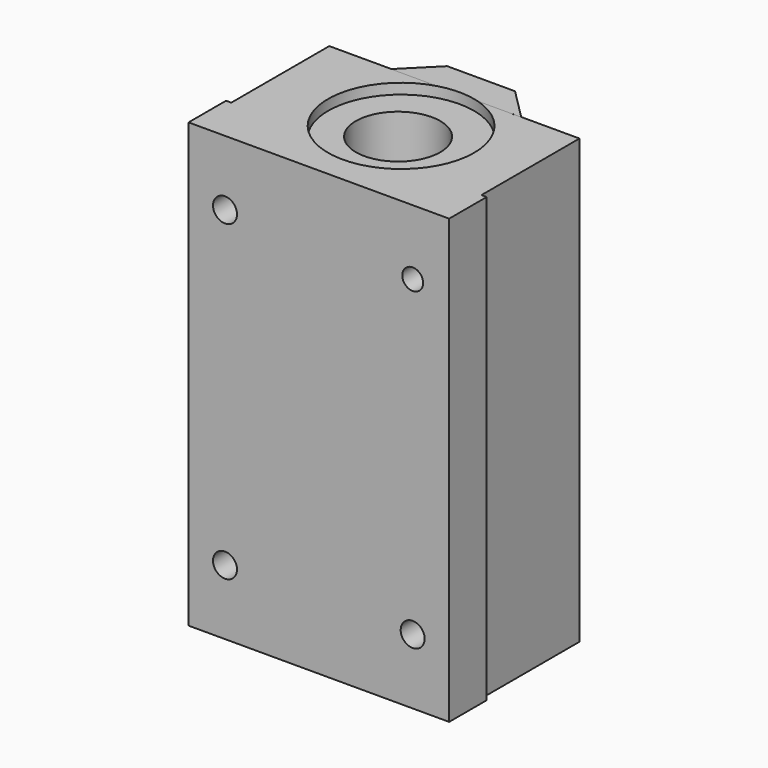
from build123d import *

# Parameters (mm, degrees)
CYLINDER006001_R          = 14
CYLINDER006001_DEPTH      = 3
CYLINDER006001_ROLL_ANGLE = -90
CYLINDER005001_R          = 14
CYLINDER005001_DEPTH      = 3
CYLINDER005001_ROLL_ANGLE = -90
CYLINDER004001_R          = 2.3
CYLINDER004001_DEPTH      = 40
CYLINDER003001_R          = 2
CYLINDER003001_DEPTH      = 40
CYLINDER002001_R          = 2.3
CYLINDER002001_DEPTH      = 40
CYLINDER001001_R          = 2.3
CYLINDER001001_DEPTH      = 40
BOX005001_W               = 1
BOX005001_H               = 85
BOX005001_DEPTH           = 23.5
BOX004001_W               = 1
BOX004001_H               = 85
BOX004001_DEPTH           = 23.5
BOX003001_W               = 10
BOX003001_H               = 90
BOX003001_DEPTH           = 10
BOX003001_ROLL_ANGLE      = 3e-06
BOX003001_PITCH_ANGLE     = -44.999934
BOX003001_PLACEMENT_ANGLE = -7e-06
BOX002001_W               = 10
BOX002001_H               = 90
BOX002001_DEPTH           = 10
BOX002001_ROLL_ANGLE      = 3e-06
BOX002001_PITCH_ANGLE     = 44.999934
BOX002001_PLACEMENT_ANGLE = 7e-06
BOX001001_W               = 25
BOX001001_H               = 85
BOX001001_DEPTH           = 6
CYLINDER015_R             = 8.1
CYLINDER015_DEPTH         = 100
CYLINDER015_ROLL_ANGLE    = -90
BOX012_W                  = 50
BOX012_H                  = 85
BOX012_DEPTH              = 32.5
CUT011001_ROLL_ANGLE      = -90


with BuildPart() as cylinder006001:
    # Cylinder006001 → Cylinder006001 (new body)
    with BuildSketch(Plane.XY):
        Circle(CYLINDER006001_R)
    extrude(amount=CYLINDER006001_DEPTH)


with BuildPart() as cylinder006001_1:
    # Cylinder006001 roll: moved
    add(cylinder006001.part.rotate(Axis((0, 0, 0), (1, 0, 0)), CYLINDER006001_ROLL_ANGLE))


with BuildPart() as cylinder006001_2:
    # Cylinder006001 placement: moved
    add(cylinder006001_1.part.moved(Location((25.6346, 83, 19.0294))))


with BuildPart() as cylinder005001:
    # Cylinder005001 → Cylinder005001 (new body)
    with BuildSketch(Plane.XY):
        Circle(CYLINDER005001_R)
    extrude(amount=CYLINDER005001_DEPTH)


with BuildPart() as cylinder005001_1:
    # Cylinder005001 roll: moved
    add(cylinder005001.part.rotate(Axis((0, 0, 0), (1, 0, 0)), CYLINDER005001_ROLL_ANGLE))


with BuildPart() as cylinder005001_2:
    # Cylinder005001 placement: moved
    add(cylinder005001_1.part.moved(Location((25.5737, -1, 19.0038))))


with BuildPart() as cylinder004001:
    # Cylinder004001 → Cylinder004001 (new body)
    with BuildSketch(Plane(origin=(43, 72.5, -4), x_dir=(1, 0, 0), z_dir=(0, 0, 1))):
        Circle(CYLINDER004001_R)
    extrude(amount=CYLINDER004001_DEPTH)


with BuildPart() as cylinder003001:
    # Cylinder003001 → Cylinder003001 (new body)
    with BuildSketch(Plane(origin=(43, 12.5, -4), x_dir=(1, 0, 0), z_dir=(0, 0, 1))):
        Circle(CYLINDER003001_R)
    extrude(amount=CYLINDER003001_DEPTH)


with BuildPart() as cylinder002001:
    # Cylinder002001 → Cylinder002001 (new body)
    with BuildSketch(Plane(origin=(7, 72.5, -3), x_dir=(1, 0, 0), z_dir=(0, 0, 1))):
        Circle(CYLINDER002001_R)
    extrude(amount=CYLINDER002001_DEPTH)


with BuildPart() as cylinder001001:
    # Cylinder001001 → Cylinder001001 (new body)
    with BuildSketch(Plane(origin=(7, 12.5, -2), x_dir=(1, 0, 0), z_dir=(0, 0, 1))):
        Circle(CYLINDER001001_R)
    extrude(amount=CYLINDER001001_DEPTH)


with BuildPart() as box005001:
    # Box005001 → Box005001 (new body)
    with BuildSketch(Plane(origin=(49, 0, 9), x_dir=(1, 0, 0), z_dir=(0, 0, 1))):
        with Locations((0.5, 42.5)):
            Rectangle(BOX005001_W, BOX005001_H)
    extrude(amount=BOX005001_DEPTH)


with BuildPart() as box004001:
    # Box004001 → Box004001 (new body)
    with BuildSketch(Plane.XY.offset(9)):
        with Locations((0.5, 42.5)):
            Rectangle(BOX004001_W, BOX004001_H)
    extrude(amount=BOX004001_DEPTH)


with BuildPart() as box003001:
    # Box003001 → Box003001 (new body)
    with BuildSketch(Plane.XY):
        with Locations((5, 45)):
            Rectangle(BOX003001_W, BOX003001_H)
    extrude(amount=BOX003001_DEPTH)


with BuildPart() as box003001_1:
    # Box003001 roll: moved
    add(box003001.part.rotate(Axis((0, 0, 0), (1, 0, 0)), BOX003001_ROLL_ANGLE))


with BuildPart() as box003001_2:
    # Box003001 pitch: moved
    add(box003001_1.part.rotate(Axis((0, 0, 0), (0, 1, 0)), BOX003001_PITCH_ANGLE))


with BuildPart() as box003001_3:
    # Box003001 placement: moved
    add(box003001_2.part.moved(Location((-18.82, -2, 2.25))).rotate(Axis((-18.82, -2, 2.25), (0, 0, 1)), BOX003001_PLACEMENT_ANGLE))


with BuildPart() as box002001:
    # Box002001 → Box002001 (new body)
    with BuildSketch(Plane.XY):
        with Locations((5, 45)):
            Rectangle(BOX002001_W, BOX002001_H)
    extrude(amount=BOX002001_DEPTH)


with BuildPart() as box002001_1:
    # Box002001 roll: moved
    add(box002001.part.rotate(Axis((0, 0, 0), (1, 0, 0)), BOX002001_ROLL_ANGLE))


with BuildPart() as box002001_2:
    # Box002001 pitch: moved
    add(box002001_1.part.rotate(Axis((0, 0, 0), (0, 1, 0)), BOX002001_PITCH_ANGLE))


with BuildPart() as box002001_3:
    # Box002001 placement: moved
    add(box002001_2.part.moved(Location((-50.8986, -3, 9.31859))).rotate(Axis((-50.8986, -3, 9.31859), (0, 0, 1)), BOX002001_PLACEMENT_ANGLE))


with BuildPart() as cut002001:
    # Box001001 → Box001001 (new body)
    with BuildSketch(Plane(origin=(-43.825523, -3.3e-05, 2.247464), x_dir=(1, 0, 0), z_dir=(0, 0, 1))):
        with Locations((12.5, 42.5)):
            Rectangle(BOX001001_W, BOX001001_H)
    extrude(amount=BOX001001_DEPTH)

    # Cut001001: cut Box002001
    add(box002001_3.part, mode=Mode.SUBTRACT)

    # Cut002001: cut Box003001
    add(box003001_3.part, mode=Mode.SUBTRACT)


with BuildPart() as cut002001_1:
    # Cut002001 placement: moved
    add(cut002001.part.moved(Location((56.6969, -0.000184, 30.2))))


with BuildPart() as cylinder015:
    # Cylinder015 → Cylinder015 (new body)
    with BuildSketch(Plane.XY):
        Circle(CYLINDER015_R)
    extrude(amount=CYLINDER015_DEPTH)


with BuildPart() as cylinder015_1:
    # Cylinder015 roll: moved
    add(cylinder015.part.rotate(Axis((0, 0, 0), (1, 0, 0)), CYLINDER015_ROLL_ANGLE))


with BuildPart() as cylinder015_2:
    # Cylinder015 placement: moved
    add(cylinder015_1.part.moved(Location((25, -4.78696, 19))))


with BuildPart() as cut011001:
    # Box012 → Box012 (new body)
    with BuildSketch(Plane.XY):
        with Locations((25, 42.5)):
            Rectangle(BOX012_W, BOX012_H)
    extrude(amount=BOX012_DEPTH)

    # Cut042: cut Cylinder015
    add(cylinder015_2.part, mode=Mode.SUBTRACT)

    # Fusion002: union Cut002001
    add(cut002001_1.part)

    # Cut003001: cut Box004001
    add(box004001.part, mode=Mode.SUBTRACT)

    # Cut004001: cut Box005001
    add(box005001.part, mode=Mode.SUBTRACT)

    # Cut005001: cut Cylinder001001
    add(cylinder001001.part, mode=Mode.SUBTRACT)

    # Cut006001: cut Cylinder002001
    add(cylinder002001.part, mode=Mode.SUBTRACT)

    # Cut007001: cut Cylinder003001
    add(cylinder003001.part, mode=Mode.SUBTRACT)

    # Cut008001: cut Cylinder004001
    add(cylinder004001.part, mode=Mode.SUBTRACT)

    # Cut009001: cut Cylinder005001
    add(cylinder005001_2.part, mode=Mode.SUBTRACT)

    # Cut010001: cut Cylinder005001
    add(cylinder005001_2.part, mode=Mode.SUBTRACT)

    # Cut011001: cut Cylinder006001
    add(cylinder006001_2.part, mode=Mode.SUBTRACT)


with BuildPart() as cut011001_1:
    # Cut011001 roll: moved
    add(cut011001.part.rotate(Axis((0, 0, 0), (1, 0, 0)), CUT011001_ROLL_ANGLE))


with BuildPart() as cut011001_2:
    # Cut011001 placement: moved
    add(cut011001_1.part.moved(Location((872.932068, 328.757654, 552.687593))))


solid = cut011001_2.part
